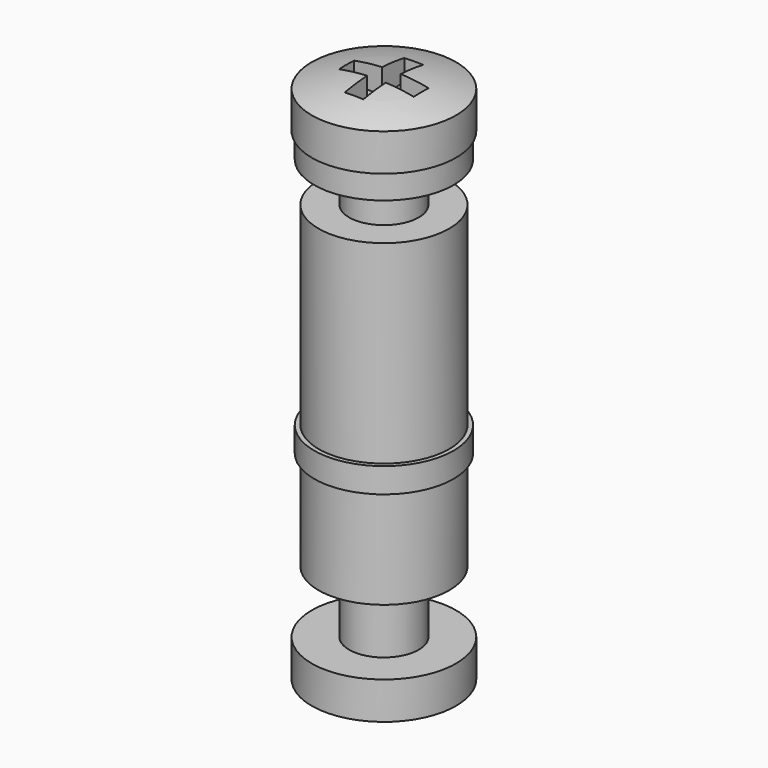
from build123d import *

# Parameters (mm, degrees)
SKETCH_R                = 2.625
PAD_DEPTH               = 4
SKETCH001_R             = 0.85
PAD001_DEPTH            = 3
SKETCH002_R             = 1
POCKET_DEPTH            = 2.5
SKETCH003_R             = 2.8
SKETCH003_R_2           = 1.5
PAD002_DEPTH            = 1
SKETCH004_R             = 2.625
PAD003_DEPTH            = 8
SKETCH005_R             = 1
POCKET001_DEPTH         = 1.9
SKETCH006_R             = 1
POCKET002_DEPTH         = 1.9
POCKET003_DEPTH         = 1.002493
SKETCH009_R             = 2.8
SKETCH009_R_2           = 1.5
PAD004_DEPTH            = 1
POCKET004_DEPTH         = 1.002493
BODY005_PLACEMENT_ANGLE = 180


with BuildPart() as body:
    # Sketch → Pad (new body)
    with BuildSketch(Plane.XY):
        Circle(SKETCH_R)
    extrude(amount=-PAD_DEPTH)

    # Sketch001 → Pad001 (join)
    with BuildSketch(Plane.XY):
        Circle(SKETCH001_R)
    extrude(amount=PAD001_DEPTH)

    # Sketch002 (on Face3 of Pad001) → Pocket (cut)
    with BuildSketch(Plane(origin=(0, 0, -4), x_dir=(1, 0, 0), z_dir=(0, 0, -1))):
        Circle(SKETCH002_R)
    extrude(amount=-POCKET_DEPTH, mode=Mode.SUBTRACT)


with BuildPart() as washer_m3_id_3_0_od_5_6_t_0_8_plastic:
    # Sketch003 → Pad002 (new body)
    with BuildSketch(Plane.XY):
        Circle(SKETCH003_R)
        Circle(SKETCH003_R_2, mode=Mode.SUBTRACT)
    extrude(amount=PAD002_DEPTH)


with BuildPart() as body002:
    # Sketch004 → Pad003 (new body)
    with BuildSketch(Plane.XY):
        Circle(SKETCH004_R)
    extrude(amount=PAD003_DEPTH)

    # Sketch005 (on Face3 of Pad003) → Pocket001 (cut)
    with BuildSketch(Plane.XY.offset(8)):
        Circle(SKETCH005_R)
    extrude(amount=-POCKET001_DEPTH, mode=Mode.SUBTRACT)

    # Sketch006 (on Face2 of Pocket001) → Pocket002 (cut)
    with BuildSketch(Plane(origin=(0, 0, 0), x_dir=(1, 0, 0), z_dir=(0, 0, -1))):
        Circle(SKETCH006_R)
    extrude(amount=-POCKET002_DEPTH, mode=Mode.SUBTRACT)


with BuildPart() as body002_1:
    # Body002 placement: moved
    add(body002.part.moved(Location((0, 0, 0.8))))


with BuildPart() as screw_m3x6_t_2_0_panhead:
    # Sketch007 → Revolution (revolve)
    with BuildSketch(Plane.XZ):
        with BuildLine():
            Line((0, -6), (-1.4, -6))
            Line((-1.4, -6), (-1.4, 0))
            Line((-1.4, 0), (-2.9, 0))
            Line((-2.9, 0), (-2.9, 1.5))
            add(Edge.make_bspline(
                [(0, 2), (-1.27, 2.028858), (-2.9, 1.5)],
                knots=[0, 0, 0, 1, 1, 1], degree=2))
            Line((0, 2), (0, -6))
        make_face()
    revolve(axis=Axis((0, 0, 0), (0, 0, 1)))

    # Sketch008 → Pocket003 (cut, through all)
    with BuildSketch(Plane.XY.offset(1)):
        Polygon((0.375, 1.5), (-0.375, 1.5), (-0.375, 0.375), (-1.5, 0.375), (-1.5, -0.375), (-0.375, -0.375), (-0.375, -1.5), (0.375, -1.5), (0.375, -0.375), (1.5, -0.375), (1.5, 0.375), (0.375, 0.375), align=None)
    extrude(amount=POCKET003_DEPTH, mode=Mode.SUBTRACT)


with BuildPart() as screw_m3x6_t_2_0_panhead_1:
    # Body003 placement: moved
    add(screw_m3x6_t_2_0_panhead.part.moved(Location((0, 0, 11.4))))


with BuildPart() as washer_m3_id_3_0_od_5_6_t_0_8_plastic001:
    # Sketch009 → Pad004 (new body)
    with BuildSketch(Plane.XY):
        Circle(SKETCH009_R)
        Circle(SKETCH009_R_2, mode=Mode.SUBTRACT)
    extrude(amount=PAD004_DEPTH)


with BuildPart() as washer_m3_id_3_0_od_5_6_t_0_8_plastic001_1:
    # Body004 placement: moved
    add(washer_m3_id_3_0_od_5_6_t_0_8_plastic001.part.moved(Location((0, 0, 10.4))))


with BuildPart() as screw_m3x6_t_2_0_panhead001:
    # Sketch010 → Revolution001 (revolve)
    with BuildSketch(Plane.XZ):
        with BuildLine():
            Line((0, -6), (-1.4, -6))
            Line((-1.4, -6), (-1.4, 0))
            Line((-1.4, 0), (-2.9, 0))
            Line((-2.9, 0), (-2.9, 1.5))
            add(Edge.make_bspline(
                [(0, 2), (-1.27, 2.028858), (-2.9, 1.5)],
                knots=[0, 0, 0, 1, 1, 1], degree=2))
            Line((0, 2), (0, -6))
        make_face()
    revolve(axis=Axis((0, 0, 0), (0, 0, 1)))

    # Sketch011 → Pocket004 (cut, through all)
    with BuildSketch(Plane.XY.offset(1)):
        Polygon((0.375, 1.5), (-0.375, 1.5), (-0.375, 0.375), (-1.5, 0.375), (-1.5, -0.375), (-0.375, -0.375), (-0.375, -1.5), (0.375, -1.5), (0.375, -0.375), (1.5, -0.375), (1.5, 0.375), (0.375, 0.375), align=None)
    extrude(amount=POCKET004_DEPTH, mode=Mode.SUBTRACT)


with BuildPart() as screw_m3x6_t_2_0_panhead001_1:
    # Body005 placement: moved
    add(screw_m3x6_t_2_0_panhead001.part.moved(Location((0, 0, -6.5))).rotate(Axis((0, 0, -6.5), (1, 0, 0)), BODY005_PLACEMENT_ANGLE))


solid = Compound([body.part, washer_m3_id_3_0_od_5_6_t_0_8_plastic.part, body002_1.part, screw_m3x6_t_2_0_panhead_1.part, washer_m3_id_3_0_od_5_6_t_0_8_plastic001_1.part, screw_m3x6_t_2_0_panhead001_1.part])
